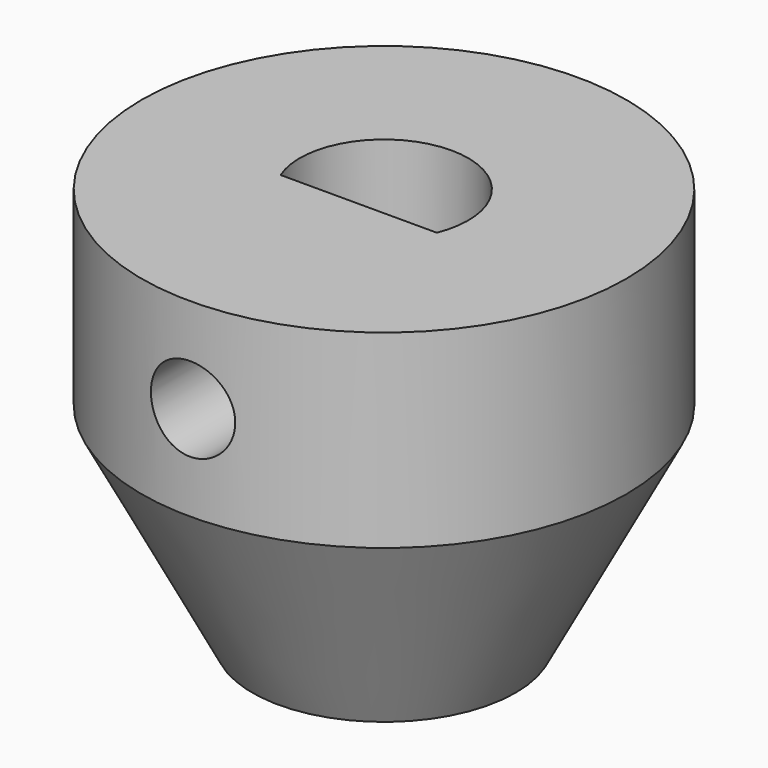
from build123d import *

# Parameters (mm, degrees)
F0_R      = 14.604492
F1_DEPTH  = 11.43
F2_R      = 2.54
F3_DEPTH  = 13.6989841001
F5_R      = 7.9375
F6_R      = 14.604492
F8_R      = 1.635125
F9_DEPTH  = 25.4
F8_R_2    = 2.032
F10_DEPTH = 3.175


with BuildPart() as f1:
    # F0 (on Top) → F1 (new body)
    with BuildSketch(Plane.XY):
        Circle(F0_R)
        with BuildLine():
            ThreePointArc((-4.7085324933, -1.905508), (0, 5.079492), (4.7085324933, -1.905508))
            Line((4.7085324933, -1.905508), (-4.7085324933, -1.905508))
        make_face(mode=Mode.SUBTRACT)
    extrude(amount=F1_DEPTH)

    # F2 (on face) → F3 (cut, up to face)
    with BuildSketch(Plane(origin=(0, -1.905508, 0), x_dir=(-1, 0, 0), z_dir=(0, 1, 0))):
        with Locations((0, 5.715)):
            Circle(F2_R)
    extrude(amount=-F3_DEPTH, mode=Mode.SUBTRACT)

    # F5 (on offset) → F7 section 0
    with BuildSketch(Plane.XY.offset(-12.7)):
        Circle(F5_R)
    # F6 (on Top) → F7 section 1
    with BuildSketch(Plane.XY):
        Circle(F6_R)
    loft()

    # F8 (on face) → F9 (cut)
    with BuildSketch(Plane(origin=(0, 0, -12.7), x_dir=(1, 0, 0), z_dir=(0, 0, -1))):
        Circle(F8_R)
    extrude(amount=-F9_DEPTH, mode=Mode.SUBTRACT)

    # F8 (on face) → F10 (cut)
    with BuildSketch(Plane(origin=(0, 0, -12.7), x_dir=(1, 0, 0), z_dir=(0, 0, -1))):
        Circle(F8_R_2)
        Circle(F8_R, mode=Mode.SUBTRACT)
    extrude(amount=-F10_DEPTH, mode=Mode.SUBTRACT)


solid = f1.part
